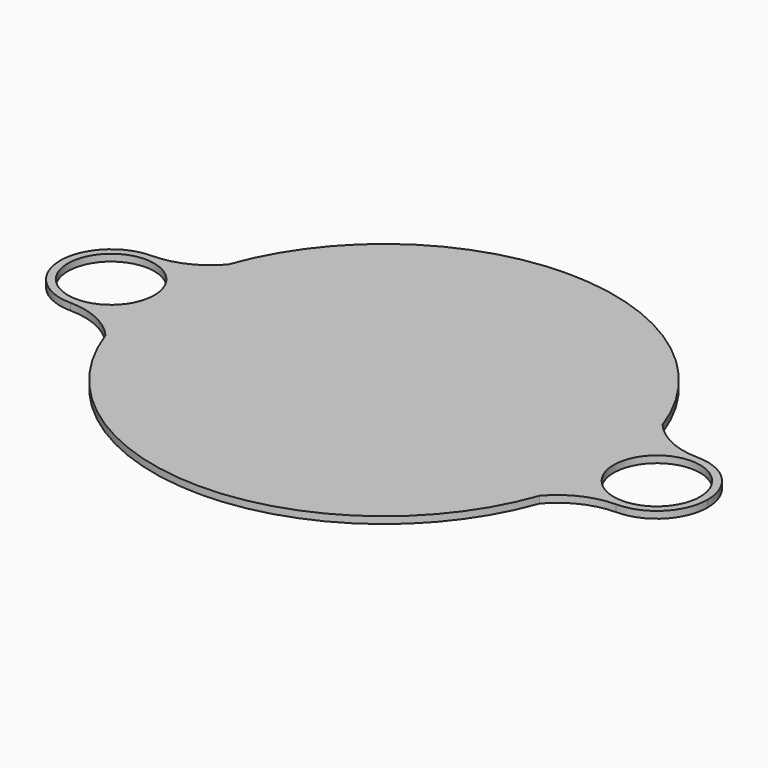
from build123d import *

# Parameters (mm, degrees)
F0_R     = 14.2875
F1_DEPTH = 2.286


with BuildPart() as f1:
    # F0 (on Top) → F1 (new body)
    with BuildSketch(Plane.XY):
        with BuildLine():
            ThreePointArc((-65.750812, -11.062835), (-64.101181, -18.346503), (-61.647349, -25.4))
            ThreePointArc((-61.647349, -25.4), (0, -66.675), (61.647349, -25.4))
            ThreePointArc((61.647349, -25.4), (64.101181, -18.346503), (65.750812, -11.062835))
            ThreePointArc((65.750812, -11.062835), (68.947885, -16.404785), (73.286413, -20.869634))
            ThreePointArc((73.286413, -20.869634), (74.768645, -14.69999), (75.732435, -8.428417))
            ThreePointArc((75.732435, -8.428417), (73.4695, 0), (75.732435, 8.428417))
            ThreePointArc((75.732435, 8.428417), (74.768645, 14.69999), (73.286413, 20.869634))
            ThreePointArc((73.286413, 20.869634), (68.947885, 16.404785), (65.750812, 11.062835))
            ThreePointArc((65.750812, 11.062835), (64.101181, 18.346503), (61.647349, 25.4))
            ThreePointArc((61.647349, 25.4), (0, 66.675), (-61.647349, 25.4))
            ThreePointArc((-61.647349, 25.4), (-64.101181, 18.346503), (-65.750812, 11.062835))
            ThreePointArc((-65.750812, 11.062835), (-66.675, 0), (-65.750812, -11.062835))
        make_face()
        with BuildLine():
            ThreePointArc((-90.297, -16.8275), (-81.890587, -14.577276), (-75.732435, -8.428417))
            ThreePointArc((-75.732435, -8.428417), (-74.045078, -4.363459), (-73.4695, 0))
            ThreePointArc((-73.4695, 0), (-74.045078, 4.363459), (-75.732435, 8.428417))
            ThreePointArc((-75.732435, 8.428417), (-81.890587, 14.577276), (-90.297, 16.8275))
            ThreePointArc((-90.297, 16.8275), (-107.1245, 0), (-90.297, -16.8275))
        make_face()
        with Locations((-90.297, 0)):
            Circle(F0_R, mode=Mode.SUBTRACT)
        with BuildLine():
            ThreePointArc((-75.732435, 8.428417), (-74.768645, 14.69999), (-73.286413, 20.869634))
            ThreePointArc((-73.286413, 20.869634), (-72.599578, 23.146086), (-71.842049, 25.4))
            ThreePointArc((-71.842049, 25.4), (-80.137688, 19.107685), (-90.297, 16.8275))
            ThreePointArc((-90.297, 16.8275), (-81.890587, 14.577276), (-75.732435, 8.428417))
        make_face()
        with BuildLine():
            ThreePointArc((-71.842049, -25.4), (-72.599578, -23.146086), (-73.286413, -20.869634))
            ThreePointArc((-73.286413, -20.869634), (-74.768645, -14.69999), (-75.732435, -8.428417))
            ThreePointArc((-75.732435, -8.428417), (-81.890587, -14.577276), (-90.297, -16.8275))
            ThreePointArc((-90.297, -16.8275), (-80.137688, -19.107685), (-71.842049, -25.4))
        make_face()
        with BuildLine():
            ThreePointArc((-73.286413, -20.869634), (-68.947885, -16.404785), (-65.750812, -11.062835))
            ThreePointArc((-65.750812, -11.062835), (-66.675, 0), (-65.750812, 11.062835))
            ThreePointArc((-65.750812, 11.062835), (-68.947885, 16.404785), (-73.286413, 20.869634))
            ThreePointArc((-73.286413, 20.869634), (-74.768645, 14.69999), (-75.732435, 8.428417))
            ThreePointArc((-75.732435, 8.428417), (-74.045078, 4.363459), (-73.4695, 0))
            ThreePointArc((-73.4695, 0), (-74.045078, -4.363459), (-75.732435, -8.428417))
            ThreePointArc((-75.732435, -8.428417), (-74.768645, -14.69999), (-73.286413, -20.869634))
        make_face()
        with BuildLine():
            ThreePointArc((-73.286413, 20.869634), (-68.947885, 16.404785), (-65.750812, 11.062835))
            ThreePointArc((-65.750812, 11.062835), (-64.101181, 18.346503), (-61.647349, 25.4))
            ThreePointArc((-61.647349, 25.4), (0, 66.675), (61.647349, 25.4))
            ThreePointArc((61.647349, 25.4), (64.101181, 18.346503), (65.750812, 11.062835))
            ThreePointArc((65.750812, 11.062835), (68.947885, 16.404785), (73.286413, 20.869634))
            ThreePointArc((73.286413, 20.869634), (72.599578, 23.146086), (71.842049, 25.4))
            ThreePointArc((71.842049, 25.4), (0, 76.2), (-71.842049, 25.4))
            ThreePointArc((-71.842049, 25.4), (-72.599578, 23.146086), (-73.286413, 20.869634))
        make_face()
        with BuildLine():
            ThreePointArc((61.647349, -25.4), (0, -66.675), (-61.647349, -25.4))
            ThreePointArc((-61.647349, -25.4), (-64.101181, -18.346503), (-65.750812, -11.062835))
            ThreePointArc((-65.750812, -11.062835), (-68.947885, -16.404785), (-73.286413, -20.869634))
            ThreePointArc((-73.286413, -20.869634), (-72.599578, -23.146086), (-71.842049, -25.4))
            ThreePointArc((-71.842049, -25.4), (0, -76.2), (71.842049, -25.4))
            ThreePointArc((71.842049, -25.4), (72.599578, -23.146086), (73.286413, -20.869634))
            ThreePointArc((73.286413, -20.869634), (68.947885, -16.404785), (65.750812, -11.062835))
            ThreePointArc((65.750812, -11.062835), (64.101181, -18.346503), (61.647349, -25.4))
        make_face()
        with BuildLine():
            ThreePointArc((73.286413, 20.869634), (74.768645, 14.69999), (75.732435, 8.428417))
            ThreePointArc((75.732435, 8.428417), (81.890587, 14.577276), (90.297, 16.8275))
            ThreePointArc((90.297, 16.8275), (80.137688, 19.107685), (71.842049, 25.4))
            ThreePointArc((71.842049, 25.4), (72.599578, 23.146086), (73.286413, 20.869634))
        make_face()
        with BuildLine():
            ThreePointArc((75.732435, -8.428417), (74.768645, -14.69999), (73.286413, -20.869634))
            ThreePointArc((73.286413, -20.869634), (72.599578, -23.146086), (71.842049, -25.4))
            ThreePointArc((71.842049, -25.4), (80.137688, -19.107685), (90.297, -16.8275))
            ThreePointArc((90.297, -16.8275), (81.890587, -14.577276), (75.732435, -8.428417))
        make_face()
        with BuildLine():
            ThreePointArc((75.732435, 8.428417), (73.4695, 0), (75.732435, -8.428417))
            ThreePointArc((75.732435, -8.428417), (81.890587, -14.577276), (90.297, -16.8275))
            ThreePointArc((90.297, -16.8275), (102.195839, -11.898839), (107.1245, 0))
            ThreePointArc((107.1245, 0), (102.195839, 11.898839), (90.297, 16.8275))
            ThreePointArc((90.297, 16.8275), (81.890587, 14.577276), (75.732435, 8.428417))
        make_face()
        with Locations((90.297, 0)):
            Circle(F0_R, mode=Mode.SUBTRACT)
    extrude(amount=F1_DEPTH)


solid = f1.part
